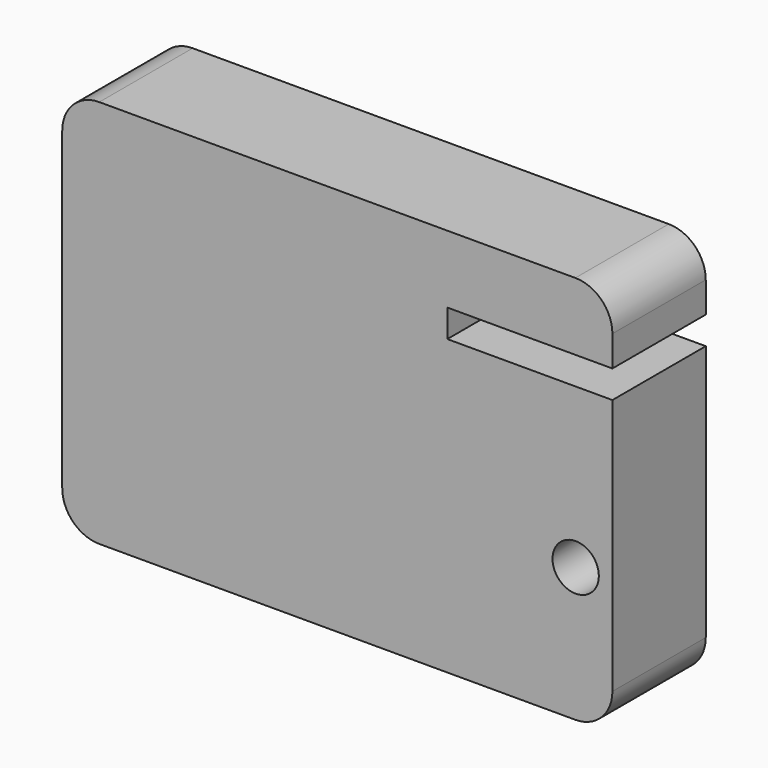
from build123d import *

# Parameters (mm, degrees)
F1_DEPTH = 13
F2_DEPTH = 25
F3_W     = 110
F3_H     = 15
F4_DEPTH = 25
F5_DEPTH = 25
F6_R     = 12.5
F7_DEPTH = 25


with BuildPart() as f1:
    # F0 (on Front) → F1 (new body)
    with BuildSketch(Plane.XZ):
        with BuildLine():
            Line((112.3251678944, 210), (-144.6748321056, 210))
            ThreePointArc((-144.6748321056, 210), (-158.8169677293, 204.1421356237), (-164.6748321056, 190))
            Line((-164.6748321056, 190), (-164.6748321056, 20))
            ThreePointArc((-164.6748321056, 20), (-158.8169677293, 5.8578643763), (-144.6748321056, 0))
            Line((-144.6748321056, 0), (112.3251678944, 0))
            ThreePointArc((112.3251678944, 0), (126.4673035181, 5.8578643763), (132.3251678944, 20))
            Line((132.3251678944, 20), (132.3251678944, 190))
            ThreePointArc((132.3251678944, 190), (126.4673035181, 204.1421356237), (112.3251678944, 210))
        make_face()
    extrude(amount=F1_DEPTH)

    # F0 (on Front) + F1_face (on face) → F2 (join)
    with BuildSketch(Plane.XZ):
        with BuildLine():
            Line((112.3251678944, 210), (-144.6748321056, 210))
            ThreePointArc((-144.6748321056, 210), (-158.8169677293, 204.1421356237), (-164.6748321056, 190))
            Line((-164.6748321056, 190), (-164.6748321056, 20))
            ThreePointArc((-164.6748321056, 20), (-158.8169677293, 5.8578643763), (-144.6748321056, 0))
            Line((-144.6748321056, 0), (112.3251678944, 0))
            ThreePointArc((112.3251678944, 0), (126.4673035181, 5.8578643763), (132.3251678944, 20))
            Line((132.3251678944, 20), (132.3251678944, 190))
            ThreePointArc((132.3251678944, 190), (126.4673035181, 204.1421356237), (112.3251678944, 210))
        make_face()
    with BuildSketch(Plane(origin=(-16.1748321056, -13, 105), x_dir=(1, 0, 0), z_dir=(0, -1, 0))):
        with BuildLine():
            Line((148.5, -85), (148.5, 85))
            ThreePointArc((148.5, 85), (142.6421356237, 99.1421356237), (128.5, 105))
            Line((128.5, 105), (-128.5, 105))
            ThreePointArc((-128.5, 105), (-142.6421356237, 99.1421356237), (-148.5, 85))
            Line((-148.5, 85), (-148.5, -85))
            ThreePointArc((-148.5, -85), (-142.6421356237, -99.1421356237), (-128.5, -105))
            Line((-128.5, -105), (128.5, -105))
            ThreePointArc((128.5, -105), (142.6421356237, -99.1421356237), (148.5, -85))
        make_face()
    extrude(amount=F2_DEPTH)

    # F3 (on face) → F4 (cut)
    with BuildSketch(Plane.XZ.offset(38)):
        with Locations((98.1996059418, 165.9660535473)):
            Rectangle(F3_W, F3_H)
    extrude(amount=-F4_DEPTH, mode=Mode.SUBTRACT)

    # F5 (cut): a face of the model
    f5_faces = [f1.faces().sort_by_distance(p)[0] for p in [
        (87.7623869181, -13, 165.9660535473),
    ]]
    extrude(f5_faces, amount=-F5_DEPTH, mode=Mode.SUBTRACT)

    # F6 (on face) → F7 (join)
    with BuildSketch(Plane.XZ.offset(38)):
        with BuildLine():
            ThreePointArc((-164.6748321056, 20), (-158.8169677293, 5.8578643763), (-144.6748321056, 0))
            Line((-144.6748321056, 0), (112.3251678944, 0))
            ThreePointArc((112.3251678944, 0), (126.4673035181, 5.8578643763), (132.3251678944, 20))
            Line((132.3251678944, 20), (132.3251678944, 158.4660535473))
            Line((132.3251678944, 158.4660535473), (43.1996059418, 158.4660535473))
            Line((43.1996059418, 158.4660535473), (43.1996059418, 173.4660535473))
            Line((43.1996059418, 173.4660535473), (132.3251678944, 173.4660535473))
            Line((132.3251678944, 173.4660535473), (132.3251678944, 190))
            ThreePointArc((132.3251678944, 190), (126.4673035181, 204.1421356237), (112.3251678944, 210))
            Line((112.3251678944, 210), (-144.6748321056, 210))
            ThreePointArc((-144.6748321056, 210), (-158.8169677293, 204.1421356237), (-164.6748321056, 190))
            Line((-164.6748321056, 190), (-164.6748321056, 20))
        make_face()
        with Locations((2.5, 72.5)):
            Circle(F6_R, mode=Mode.SUBTRACT)
        with Locations((57.5, 72.5)):
            Circle(F6_R, mode=Mode.SUBTRACT)
        with Locations((112.5, 72.5)):
            Circle(F6_R, mode=Mode.SUBTRACT)
        with Locations((2.5, 72.5)):
            Circle(F6_R)
        with Locations((57.5, 72.5)):
            Circle(F6_R)
    extrude(amount=F7_DEPTH)


solid = f1.part
